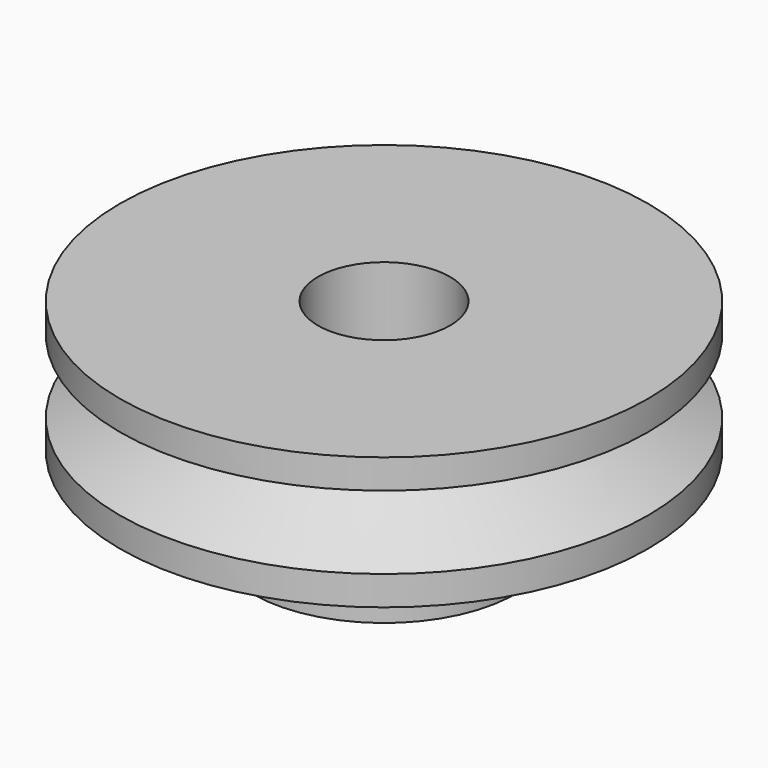
from build123d import *

# Parameters (mm, degrees)
F2_R          = 4
F3_DEPTH      = 25
F3_DEPTH_BACK = 25


with BuildPart() as f1:
    # F0 (on Front) → F1 (revolve)
    with BuildSketch(Plane.XZ):
        Polygon((-8, 0), (0, 0), (0, 13), (-8, 13), (-16, 13), (-16, 11.2221399145), (-11.3175004572, 9), (-16, 6.7778600855), (-16, 5), (-8, 5), align=None)
    revolve(axis=Axis((0, 0, 6.5), (0, 0, -1)))

    # F2 (on Top) → F3 (cut, two sides)
    with BuildSketch(Plane.XY) as f3_sk:
        Circle(F2_R)
    extrude(amount=-F3_DEPTH, mode=Mode.SUBTRACT)
    extrude(f3_sk.sketch, amount=F3_DEPTH_BACK, mode=Mode.SUBTRACT)


solid = f1.part
